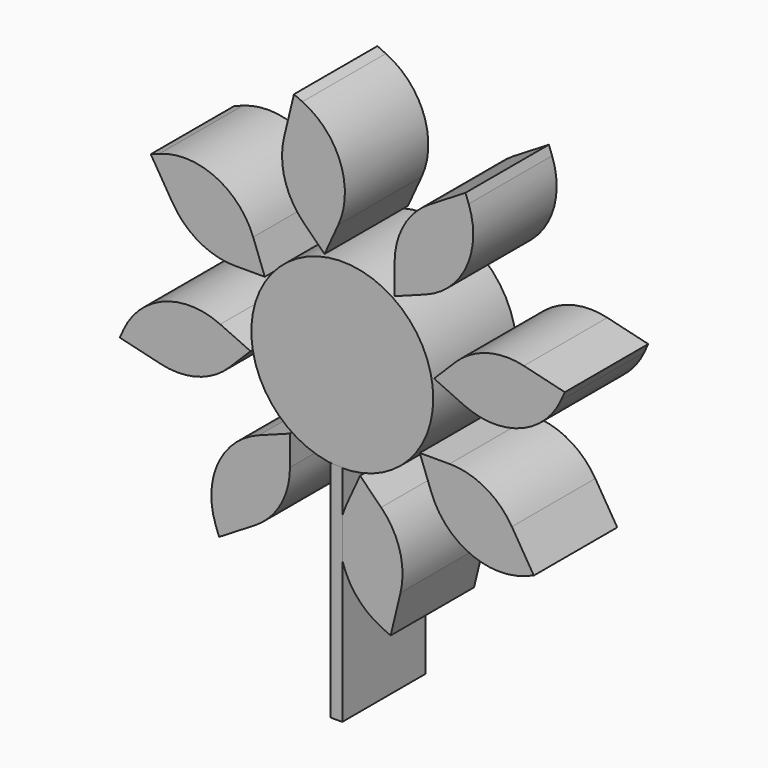
from build123d import *

# Parameters (mm, degrees)
F0_R     = 22.154955
F2_DEPTH = 25.4
F3_W     = 2.831081
F3_H     = 54.587642
F4_DEPTH = 25.4


with BuildPart() as f2:
    # F1 (on face) + F0 (on Front) → F2 (new body)
    with BuildSketch(Plane.XZ):
        with BuildLine():
            Line((12.74353, 26.133335), (12.74353, 18.871494))
            Line((12.74353, 18.871494), (20.332901, 21.704859))
            ThreePointArc((20.332901, 21.704859), (30.278735, 30.956598), (30.789875, 44.530583))
            Line((30.789875, 44.530583), (30.004595, 46.653405))
            Line((30.004595, 46.653405), (21.252147, 41.304685))
            ThreePointArc((21.252147, 41.304685), (15.015893, 34.830553), (12.74353, 26.133335))
        make_face()
        with BuildLine():
            Line((-9.716148, 53.259607), (-11.772486, 54.205392))
            Line((-11.772486, 54.205392), (-14.179286, 44.23436))
            ThreePointArc((-14.179286, 44.23436), (-14.01108, 35.24676), (-9.468022, 27.490095))
            Line((-9.468022, 27.490095), (-4.333125, 22.355198))
            Line((-4.333125, 22.355198), (-0.970121, 29.725185))
            ThreePointArc((-0.970121, 29.725185), (-0.479322, 43.29992), (-9.716148, 53.259607))
        make_face()
        with BuildLine():
            Line((-44.530583, 30.789875), (-46.653405, 30.004595))
            Line((-46.653405, 30.004595), (-41.304685, 21.252147))
            ThreePointArc((-41.304685, 21.252147), (-34.830553, 15.015893), (-26.133335, 12.74353))
            Line((-26.133335, 12.74353), (-18.871494, 12.74353))
            Line((-18.871494, 12.74353), (-21.704859, 20.332901))
            ThreePointArc((-21.704859, 20.332901), (-30.956598, 30.278735), (-44.530583, 30.789875))
        make_face()
        with BuildLine():
            Line((53.259607, 9.716148), (54.205392, 11.772486))
            Line((54.205392, 11.772486), (44.23436, 14.179286))
            ThreePointArc((44.23436, 14.179286), (35.24676, 14.01108), (27.490095, 9.468022))
            Line((27.490095, 9.468022), (22.355198, 4.333125))
            Line((22.355198, 4.333125), (29.725185, 0.970121))
            ThreePointArc((29.725185, 0.970121), (43.29992, 0.479322), (53.259607, 9.716148))
        make_face()
        with BuildLine():
            Line((44.530583, -30.789875), (46.653405, -30.004595))
            Line((46.653405, -30.004595), (41.304685, -21.252147))
            ThreePointArc((41.304685, -21.252147), (34.830553, -15.015893), (26.133335, -12.74353))
            Line((26.133335, -12.74353), (18.871494, -12.74353))
            Line((18.871494, -12.74353), (21.704859, -20.332901))
            ThreePointArc((21.704859, -20.332901), (30.956598, -30.278735), (44.530583, -30.789875))
        make_face()
        with BuildLine():
            Line((9.716148, -53.259607), (11.772486, -54.205392))
            Line((11.772486, -54.205392), (14.179286, -44.23436))
            ThreePointArc((14.179286, -44.23436), (14.01108, -35.24676), (9.468022, -27.490095))
            Line((9.468022, -27.490095), (4.333125, -22.355198))
            Line((4.333125, -22.355198), (0.970121, -29.725185))
            ThreePointArc((0.970121, -29.725185), (0.479322, -43.29992), (9.716148, -53.259607))
        make_face()
        with BuildLine():
            Line((-30.789875, -44.530583), (-30.004595, -46.653405))
            Line((-30.004595, -46.653405), (-21.252147, -41.304685))
            ThreePointArc((-21.252147, -41.304685), (-15.015893, -34.830553), (-12.74353, -26.133335))
            Line((-12.74353, -26.133335), (-12.74353, -18.871494))
            Line((-12.74353, -18.871494), (-20.332901, -21.704859))
            ThreePointArc((-20.332901, -21.704859), (-30.278735, -30.956598), (-30.789875, -44.530583))
        make_face()
        with BuildLine():
            Line((-53.259607, -9.716148), (-54.205392, -11.772486))
            Line((-54.205392, -11.772486), (-44.23436, -14.179286))
            ThreePointArc((-44.23436, -14.179286), (-35.24676, -14.01108), (-27.490095, -9.468022))
            Line((-27.490095, -9.468022), (-22.355198, -4.333125))
            Line((-22.355198, -4.333125), (-29.725185, -0.970121))
            ThreePointArc((-29.725185, -0.970121), (-43.29992, -0.479322), (-53.259607, -9.716148))
        make_face()
    with BuildSketch(Plane.XZ):
        Circle(F0_R)
    extrude(amount=F2_DEPTH)


with BuildPart() as f4:
    # F3 (on face) → F4 (new body)
    with BuildSketch(Plane.XZ.offset(25.4)):
        with Locations((-1.41554, -49.267146)):
            Rectangle(F3_W, F3_H)
    extrude(amount=-F4_DEPTH)


solid = Compound([f2.part, f4.part])
